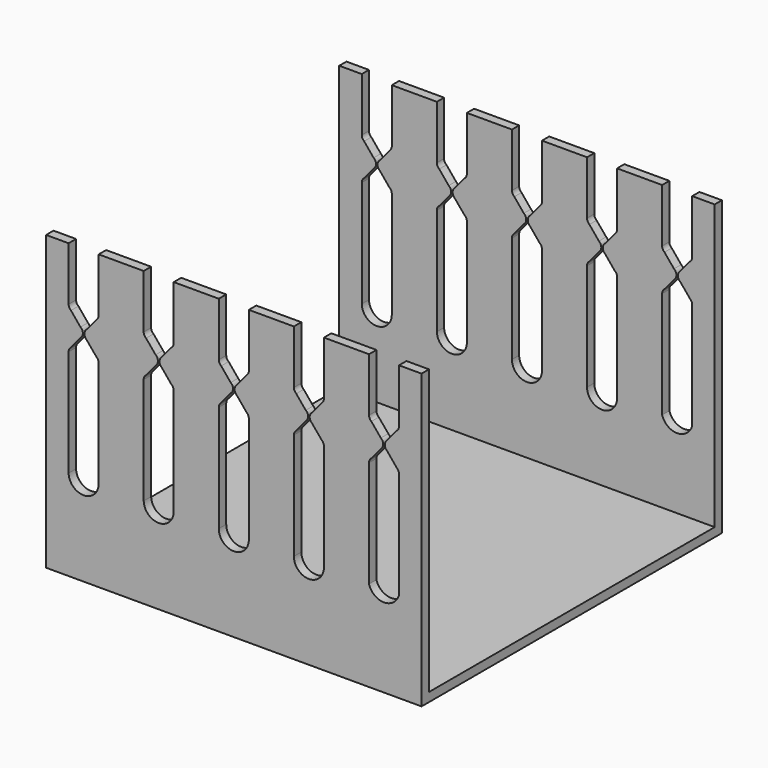
from build123d import *

# Parameters (mm, degrees)
F1_DEPTH = 50.8
F2_W     = 48.3171528983
F2_H     = 38.4337736005
F3_DEPTH = 107.43305


with BuildPart() as f1:
    # F0 (on Front) → F1 (new body)
    with BuildSketch(Plane.XZ):
        with BuildLine():
            Line((18.2877206, 18.952083), (12.1917206, 18.952083))
            Line((12.1917206, 18.952083), (12.1917206, 11.6905786))
            ThreePointArc((12.1917206, 11.6905786), (12.1079221829, 11.3356028086), (11.8742206, 11.0555786))
            Line((11.8742206, 11.0555786), (10.5828084, 9.4917006))
            ThreePointArc((10.5828084, 9.4917006), (10.2653084, 8.8567006), (10.5828084, 8.2217006))
            Line((10.5828084, 8.2217006), (11.8742206, 6.6578226))
            ThreePointArc((11.8742206, 6.6578226), (12.1079221829, 6.3777983914), (12.1917206, 6.0228226))
            Line((12.1917206, 6.0228226), (12.1917206, -8.4330286))
            ThreePointArc((12.1917206, -8.4330286), (10.1597206, -10.4650286), (8.1277206, -8.4330286))
            Line((8.1277206, -8.4330286), (8.1277206, 6.0228226))
            ThreePointArc((8.1277206, 6.0228226), (8.2115190171, 6.3777983914), (8.4452206, 6.6578226))
            Line((8.4452206, 6.6578226), (9.7366328, 8.2217006))
            ThreePointArc((9.7366328, 8.2217006), (10.0541328, 8.8567006), (9.7366328, 9.4917006))
            Line((9.7366328, 9.4917006), (8.4452206, 11.0555786))
            ThreePointArc((8.4452206, 11.0555786), (8.2115190171, 11.3356028086), (8.1277206, 11.6905786))
            Line((8.1277206, 11.6905786), (8.1277206, 18.952083))
            Line((8.1277206, 18.952083), (2.0317206, 18.952083))
            Line((2.0317206, 18.952083), (2.0317206, 11.6905786))
            ThreePointArc((2.0317206, 11.6905786), (1.9479221829, 11.3356028086), (1.7142206, 11.0555786))
            Line((1.7142206, 11.0555786), (0.4228084, 9.4917006))
            ThreePointArc((0.4228084, 9.4917006), (0.1053084, 8.8567006), (0.4228084, 8.2217006))
            Line((0.4228084, 8.2217006), (1.7142206, 6.6578226))
            ThreePointArc((1.7142206, 6.6578226), (1.9479221829, 6.3777983914), (2.0317206, 6.0228226))
            Line((2.0317206, 6.0228226), (2.0317206, -8.3734656))
            ThreePointArc((2.0317206, -8.3734656), (0.0299417836, -10.4652468308), (-2.0322794, -8.4330286))
            Line((-2.0322794, -8.4330286), (-2.0322794, 6.0228226))
            ThreePointArc((-2.0322794, 6.0228226), (-1.9484809829, 6.3777983914), (-1.7147794, 6.6578226))
            Line((-1.7147794, 6.6578226), (-0.4233672, 8.2217006))
            ThreePointArc((-0.4233672, 8.2217006), (-0.1058672, 8.8567006), (-0.4233672, 9.4917006))
            Line((-0.4233672, 9.4917006), (-1.7147794, 11.0555786))
            ThreePointArc((-1.7147794, 11.0555786), (-1.9484809829, 11.3356028086), (-2.0322794, 11.6905786))
            Line((-2.0322794, 11.6905786), (-2.0322794, 18.952083))
            Line((-2.0322794, 18.952083), (-8.1282794, 18.952083))
            Line((-8.1282794, 18.952083), (-8.1282794, 11.6905786))
            ThreePointArc((-8.1282794, 11.6905786), (-8.2120778171, 11.3356028086), (-8.4457794, 11.0555786))
            Line((-8.4457794, 11.0555786), (-9.7371916, 9.4917006))
            ThreePointArc((-9.7371916, 9.4917006), (-10.0546916, 8.8567006), (-9.7371916, 8.2217006))
            Line((-9.7371916, 8.2217006), (-8.4457794, 6.6578226))
            ThreePointArc((-8.4457794, 6.6578226), (-8.2120778171, 6.3777983914), (-8.1282794, 6.0228226))
            Line((-8.1282794, 6.0228226), (-8.1282794, -8.3734656))
            ThreePointArc((-8.1282794, -8.3734656), (-10.1309311867, -10.4056838308), (-12.1922794, -8.4330286))
            Line((-12.1922794, -8.4330286), (-12.1922794, 6.0228226))
            ThreePointArc((-12.1922794, 6.0228226), (-12.1084809829, 6.3777983914), (-11.8747794, 6.6578226))
            Line((-11.8747794, 6.6578226), (-10.5833672, 8.2217006))
            ThreePointArc((-10.5833672, 8.2217006), (-10.2658672, 8.8567006), (-10.5833672, 9.4917006))
            Line((-10.5833672, 9.4917006), (-11.8747794, 11.0555786))
            ThreePointArc((-11.8747794, 11.0555786), (-12.1084809829, 11.3356028086), (-12.1922794, 11.6905786))
            Line((-12.1922794, 11.6905786), (-12.1922794, 18.952083))
            Line((-12.1922794, 18.952083), (-18.2882794, 18.952083))
            Line((-18.2882794, 18.952083), (-18.2882794, 11.6905786))
            ThreePointArc((-18.2882794, 11.6905786), (-18.3720778171, 11.3356028086), (-18.6057794, 11.0555786))
            Line((-18.6057794, 11.0555786), (-19.8971916, 9.4917006))
            ThreePointArc((-19.8971916, 9.4917006), (-20.2146916, 8.8567006), (-19.8971916, 8.2217006))
            Line((-19.8971916, 8.2217006), (-18.6057794, 6.6578226))
            ThreePointArc((-18.6057794, 6.6578226), (-18.3720778171, 6.3777983914), (-18.2882794, 6.0228226))
            Line((-18.2882794, 6.0228226), (-18.2882794, -8.3734656))
            ThreePointArc((-18.2882794, -8.3734656), (-20.2909311867, -10.4056838308), (-22.3522794, -8.4330286))
            Line((-22.3522794, -8.4330286), (-22.3522794, 6.0228226))
            ThreePointArc((-22.3522794, 6.0228226), (-22.2684809829, 6.3777983914), (-22.0347794, 6.6578226))
            Line((-22.0347794, 6.6578226), (-20.7433672, 8.2217006))
            ThreePointArc((-20.7433672, 8.2217006), (-20.4258672, 8.8567006), (-20.7433672, 9.4917006))
            Line((-20.7433672, 9.4917006), (-22.0347794, 11.0555786))
            ThreePointArc((-22.0347794, 11.0555786), (-22.2684809829, 11.3356028086), (-22.3522794, 11.6905786))
            Line((-22.3522794, 11.6905786), (-22.3522794, 18.952083))
            Line((-22.3522794, 18.952083), (-25.4002794, 18.952083))
            Line((-25.4002794, 18.952083), (-25.4002794, -20.6879153848))
            Line((-25.4002794, -20.6879153848), (25.3998984, -20.6879153848))
            Line((25.3998984, -20.6879153848), (25.3998984, 18.952083))
            Line((25.3998984, 18.952083), (22.3518984, 18.952083))
            Line((22.3518984, 18.952083), (22.3518984, 11.6905786))
            ThreePointArc((22.3518984, 11.6905786), (22.2680999829, 11.3356028086), (22.0343984, 11.0555786))
            Line((22.0343984, 11.0555786), (20.7429862, 9.4917006))
            ThreePointArc((20.7429862, 9.4917006), (20.4254862, 8.8567006), (20.7429862, 8.2217006))
            Line((20.7429862, 8.2217006), (22.0343984, 6.6578226))
            ThreePointArc((22.0343984, 6.6578226), (22.2680999829, 6.3777983914), (22.3518984, 6.0228226))
            Line((22.3518984, 6.0228226), (22.3519007039, -8.4330292862))
            ThreePointArc((22.3519007039, -8.4330292862), (20.3198984, -9.948037), (18.2878960961, -8.4330292862))
            Line((18.2878960961, -8.4330292862), (18.2877206, 6.0228226))
            ThreePointArc((18.2877206, 6.0228226), (18.3715190171, 6.3777983914), (18.6052206, 6.6578226))
            Line((18.6052206, 6.6578226), (19.8966328, 8.2217006))
            ThreePointArc((19.8966328, 8.2217006), (20.2141328, 8.8567006), (19.8966328, 9.4917006))
            Line((19.8966328, 9.4917006), (18.6052206, 11.0555786))
            ThreePointArc((18.6052206, 11.0555786), (18.3715190171, 11.3356028086), (18.2877206, 11.6905786))
            Line((18.2877206, 11.6905786), (18.2877206, 18.952083))
        make_face()
    extrude(amount=F1_DEPTH)

    # F2 (on face) → F3 (cut)
    with BuildSketch(Plane.YZ.offset(25.3998984)):
        with Locations((-25.3806467557, -0.2648038003)):
            Rectangle(F2_W, F2_H)
    extrude(amount=-F3_DEPTH, mode=Mode.SUBTRACT)


solid = f1.part
